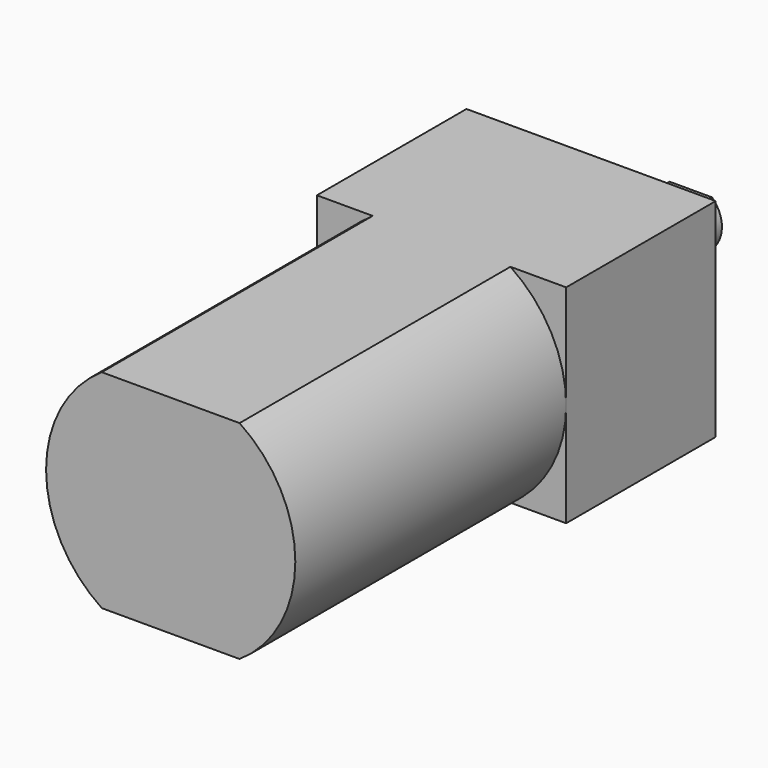
from build123d import *

# Parameters (mm, degrees)
F0_W     = 12
F0_H     = 10
F1_DEPTH = 9
F3_DEPTH = 16.3
F5_DEPTH = 6


with BuildPart() as f1:
    # F0 (on Front) → F1 (new body)
    with BuildSketch(Plane.XZ):
        Rectangle(F0_W, F0_H)
    extrude(amount=F1_DEPTH)

    # F2 (on face) → F3 (join)
    with BuildSketch(Plane.XZ.offset(9)):
        with BuildLine():
            Line((3.316625, 5), (-3.316625, 5))
            ThreePointArc((-3.316625, 5), (-6, 0), (-3.316625, -5))
            Line((-3.316625, -5), (3.316625, -5))
            ThreePointArc((3.316625, -5), (6, 0), (3.316625, 5))
        make_face()
    extrude(amount=F3_DEPTH)

    # F4 (on face) → F5 (join)
    with BuildSketch(Plane(origin=(0, 0, 0), x_dir=(-1, 0, 0), z_dir=(0, 1, 0))):
        with BuildLine():
            Line((1.019804, 1.1), (-1.019804, 1.1))
            ThreePointArc((-1.019804, 1.1), (0, -1.5), (1.019804, 1.1))
        make_face()
    extrude(amount=F5_DEPTH)


solid = f1.part
